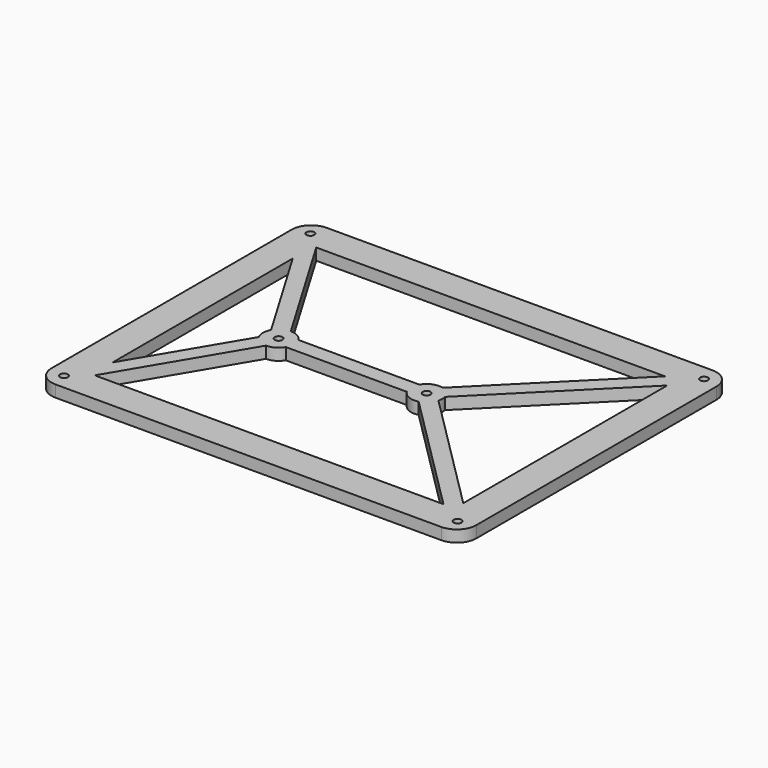
from build123d import *

# Parameters (mm, degrees)
SKETCH002_R     = 1
PAD001_DEPTH    = 3
SKETCH003_R     = 2
POCKET001_DEPTH = 1


with BuildPart() as part:
    # Sketch002 → Pad001 (new body)
    with BuildSketch(Plane.XY):
        with BuildLine():
            Line((129.15, 25), (129.15, 102.15))
            ThreePointArc((129.15, 102.15), (127.685534, 105.685534), (124.15, 107.15))
            Line((124.15, 107.15), (25, 107.15))
            ThreePointArc((25, 107.15), (21.464466, 105.685534), (20, 102.15))
            Line((20, 102.15), (20, 25))
            ThreePointArc((20, 25), (21.464466, 21.464466), (25, 20))
            Line((25, 20), (124.15, 20))
            ThreePointArc((124.15, 20), (127.685534, 21.464466), (129.15, 25))
        make_face()
        with Locations((24, 103.15)):
            Circle(SKETCH002_R, mode=Mode.SUBTRACT)
        with Locations((24, 24)):
            Circle(SKETCH002_R, mode=Mode.SUBTRACT)
        with Locations((125.15, 24)):
            Circle(SKETCH002_R, mode=Mode.SUBTRACT)
        with Locations((125.15, 103.15)):
            Circle(SKETCH002_R, mode=Mode.SUBTRACT)
        with Locations((85.55, 63.55)):
            Circle(SKETCH002_R, mode=Mode.SUBTRACT)
        with Locations((47.5, 63.55)):
            Circle(SKETCH002_R, mode=Mode.SUBTRACT)
        with BuildLine():
            ThreePointArc((50.964102, 65.55), (49.479216, 67.026018), (47.452085, 67.549713))
            Line((28.699389, 99.15), (47.452085, 67.549713))
            Line((118.321573, 99.15), (28.699389, 99.15))
            Line((86.585276, 67.413703), (118.321573, 99.15))
            ThreePointArc((86.585276, 67.413703), (84.019266, 67.245518), (82.085898, 65.55))
            Line((50.964102, 65.55), (82.085898, 65.55))
        make_face(mode=Mode.SUBTRACT)
        with BuildLine():
            ThreePointArc((82.085898, 61.55), (84.020434, 59.853999), (86.587717, 59.686951))
            Line((118.314728, 28), (86.587717, 59.686951))
            Line((28.703156, 28), (118.314728, 28))
            Line((47.449866, 59.550314), (28.703156, 28))
            ThreePointArc((47.449866, 59.550314), (49.478252, 60.073433), (50.964102, 61.55))
            Line((50.964102, 61.55), (82.085898, 61.55))
        make_face(mode=Mode.SUBTRACT)
        with BuildLine():
            Line((89.414357, 62.517165), (121.15, 30.821592))
            Line((121.15, 30.821592), (121.15, 96.321573))
            Line((121.15, 96.321573), (89.413703, 64.585276))
            ThreePointArc((89.414357, 62.517165), (89.55, 63.551263), (89.413703, 64.585276))
        make_face(mode=Mode.SUBTRACT)
        with BuildLine():
            Line((44.012189, 65.508361), (28, 92.490603))
            Line((28, 92.490603), (28, 34.647227))
            Line((28, 34.647227), (44.011104, 61.593574))
            ThreePointArc((44.012189, 65.508361), (43.5, 63.551109), (44.011104, 61.593574))
        make_face(mode=Mode.SUBTRACT)
    extrude(amount=PAD001_DEPTH)

    # Sketch003 → Pocket001 (cut)
    with BuildSketch(Plane.XY):
        with Locations((24, 103.15)):
            Circle(SKETCH003_R)
        with Locations((24, 24)):
            Circle(SKETCH003_R)
        with Locations((125.15, 24)):
            Circle(SKETCH003_R)
        with Locations((125.15, 103.15)):
            Circle(SKETCH003_R)
        with Locations((85.55, 63.55)):
            Circle(SKETCH003_R)
        with Locations((47.5, 63.55)):
            Circle(SKETCH003_R)
    extrude(amount=POCKET001_DEPTH, mode=Mode.SUBTRACT)


solid = part.part
